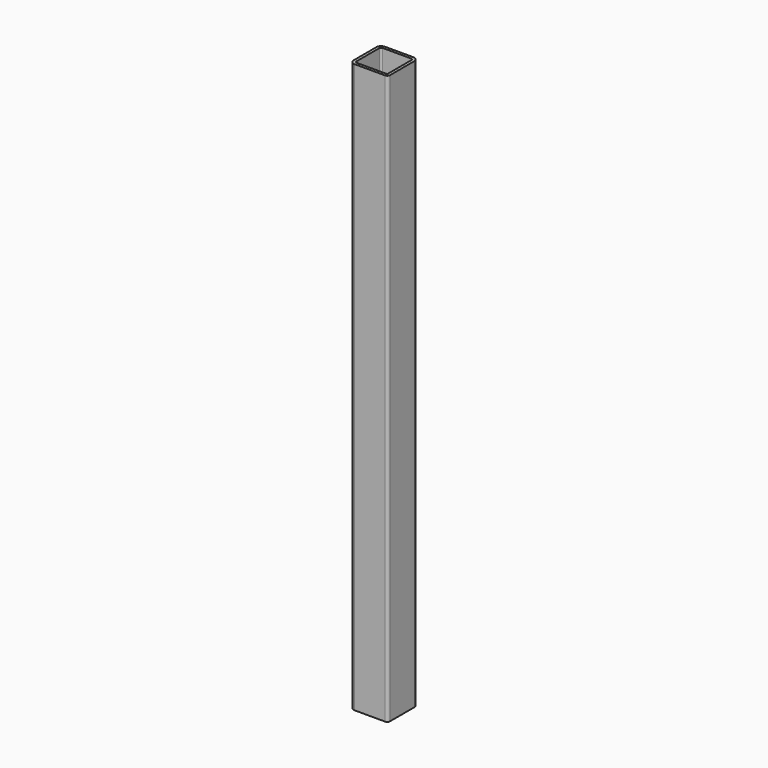
from build123d import *

# Parameters (mm, degrees)
F1_DEPTH = 600


with BuildPart() as f1:
    # F0 (on Top) → F1 (new body)
    with BuildSketch(Plane.XY):
        with BuildLine():
            ThreePointArc((22.454205, 15), (20.989739, 18.535534), (17.454205, 20))
            Line((17.454205, 20), (-12.545795, 20))
            ThreePointArc((-12.545795, 20), (-16.081329, 18.535534), (-17.545795, 15))
            Line((-17.545795, 15), (-17.545795, -15))
            ThreePointArc((-17.545795, -15), (-16.081329, -18.535534), (-12.545795, -20))
            Line((-12.545795, -20), (19.454205, -20))
            ThreePointArc((19.454205, -20), (21.575525, -19.12132), (22.454205, -17))
            Line((22.454205, -17), (22.454205, 15))
        make_face()
        with BuildLine():
            Line((-12.545795, 17), (17.454205, 17))
            ThreePointArc((17.454205, 17), (18.868419, 16.414214), (19.454205, 15))
            Line((19.454205, 15), (19.454205, -17))
            Line((19.454205, -17), (-12.545795, -17))
            ThreePointArc((-12.545795, -17), (-13.960009, -16.414214), (-14.545795, -15))
            Line((-14.545795, -15), (-14.545795, 15))
            ThreePointArc((-14.545795, 15), (-13.960009, 16.414214), (-12.545795, 17))
        make_face(mode=Mode.SUBTRACT)
    extrude(amount=F1_DEPTH)


solid = f1.part
